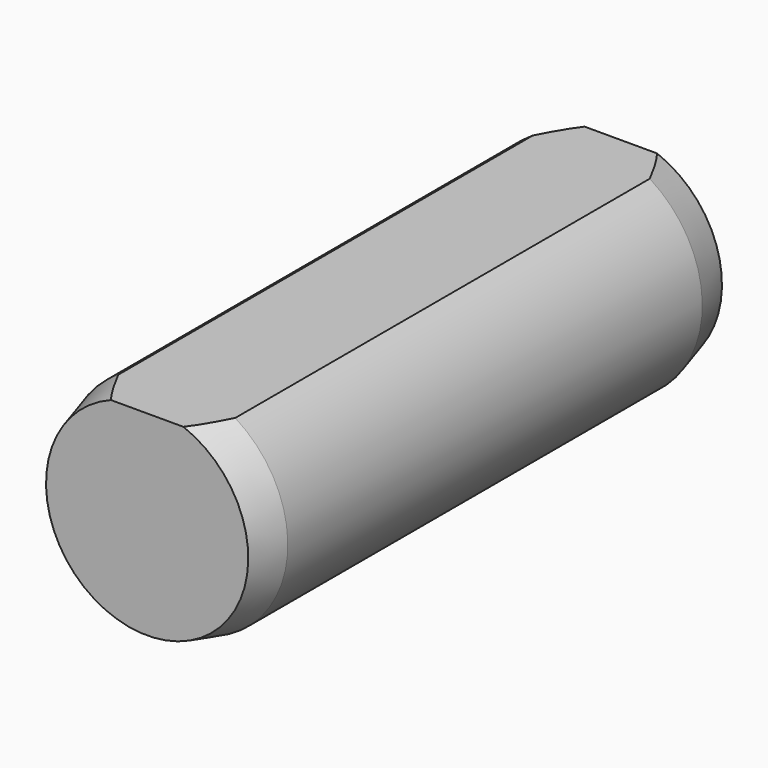
from build123d import *

# Parameters (mm, degrees)
F1_R     = 3
F2_DEPTH = 8
F3_SIZE2 = 0.2679491924
F3_SIZE  = 1
F4_W     = 6
F4_H     = 6
F5_DEPTH = 8


with BuildPart() as f2:
    # F1 (on Front) → F2 (new body, symmetric)
    with BuildSketch(Plane.XZ):
        Circle(F1_R)
    extrude(amount=F2_DEPTH, both=True)

    # F3
    f3_edges = [f2.edges().sort_by_distance(p)[0] for p in [
        (-3, -8, 0),
        (-3, 8, 0),
    ]]
    f3_side = f2.faces().sort_by_distance((-3, 0, 0))[0]
    chamfer(f3_edges, length=F3_SIZE, length2=F3_SIZE2, reference=f3_side)

    # F4 (on Front) → F5 (cut, symmetric)
    with BuildSketch(Plane.XZ):
        with Locations((0, 5.55)):
            Rectangle(F4_W, F4_H)
    extrude(amount=F5_DEPTH, both=True, mode=Mode.SUBTRACT)


solid = f2.part
